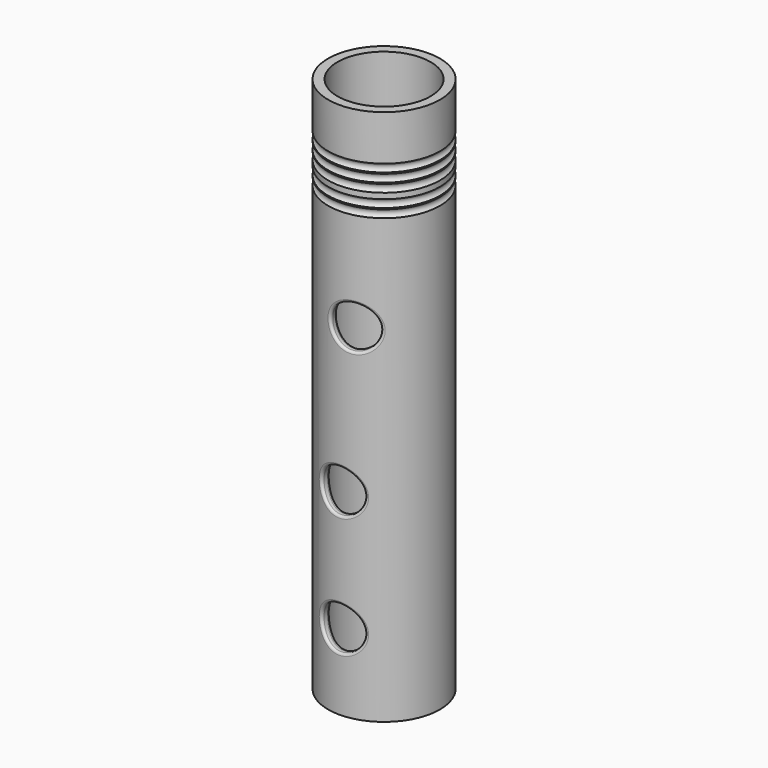
from build123d import *

# Parameters (mm, degrees)
TORUS001001_R                     = 1
TORUS001_R                        = 1
TORUS_R                           = 1
TORUS001002001_R                  = 1
TORUS001002_R                     = 1
CYLINDER006001001_R               = 4.8
CYLINDER006001001_DEPTH           = 10
CYLINDER006001001_ROLL_ANGLE      = 90
CYLINDER006001001_PLACEMENT_ANGLE = 11.000009
CYLINDER006_R                     = 4.8
CYLINDER006_DEPTH                 = 10
CYLINDER006_ROLL_ANGLE            = 90
CYLINDER006001_R                  = 4.8
CYLINDER006001_DEPTH              = 10
CYLINDER006001_ROLL_ANGLE         = 90
CYLINDER001_R                     = 10.4
CYLINDER001_DEPTH                 = 120
CYLINDER_R                        = 12.5
CYLINDER_DEPTH                    = 120
FILLET_R                          = 0.5
FILLET001_R                       = 1


with BuildPart() as torus001001:
    # Torus001001 → Torus001001 (revolve)
    with BuildSketch(Plane(origin=(0, 0, 109), x_dir=(1, 0, 0), z_dir=(0, -1, 0))):
        with Locations((13, 0)):
            Circle(TORUS001001_R)
    revolve(axis=Axis((0, 0, 109), (0, 0, 1)))


with BuildPart() as torus001:
    # Torus001 → Torus001 (revolve)
    with BuildSketch(Plane(origin=(0, 0, 100), x_dir=(1, 0, 0), z_dir=(0, -1, 0))):
        with Locations((13, 0)):
            Circle(TORUS001_R)
    revolve(axis=Axis((0, 0, 100), (0, 0, 1)))


with BuildPart() as torus:
    # Torus → Torus (revolve)
    with BuildSketch(Plane(origin=(0, 0, 102), x_dir=(1, 0, 0), z_dir=(0, -1, 0))):
        with Locations((13, 0)):
            Circle(TORUS_R)
    revolve(axis=Axis((0, 0, 102), (0, 0, 1)))


with BuildPart() as torus001002001:
    # Torus001002001 → Torus001002001 (revolve)
    with BuildSketch(Plane(origin=(0, 0, 105), x_dir=(1, 0, 0), z_dir=(0, -1, 0))):
        with Locations((13, 0)):
            Circle(TORUS001002001_R)
    revolve(axis=Axis((0, 0, 105), (0, 0, 1)))


with BuildPart() as torus001002:
    # Torus001002 → Torus001002 (revolve)
    with BuildSketch(Plane(origin=(0, 0, 107), x_dir=(1, 0, 0), z_dir=(0, -1, 0))):
        with Locations((13, 0)):
            Circle(TORUS001002_R)
    revolve(axis=Axis((0, 0, 107), (0, 0, 1)))


with BuildPart() as obj1:
    # Cylinder006001001 → Cylinder006001001 (new body)
    with BuildSketch(Plane.XY):
        Circle(CYLINDER006001001_R)
    extrude(amount=CYLINDER006001001_DEPTH)


with BuildPart() as obj1_1:
    # Cylinder006001001 roll: moved
    add(obj1.part.rotate(Axis((0, 0, 0), (1, 0, 0)), CYLINDER006001001_ROLL_ANGLE))


with BuildPart() as obj1_2:
    # Cylinder006001001 placement: moved
    add(obj1_1.part.moved(Location((2, -8, 77))).rotate(Axis((2, -8, 77), (0, 0, 1)), CYLINDER006001001_PLACEMENT_ANGLE))


with BuildPart() as obj2:
    # Cylinder006 → Cylinder006 (new body)
    with BuildSketch(Plane.XY):
        Circle(CYLINDER006_R)
    extrude(amount=CYLINDER006_DEPTH)


with BuildPart() as obj2_1:
    # Cylinder006 roll: moved
    add(obj2.part.rotate(Axis((0, 0, 0), (1, 0, 0)), CYLINDER006_ROLL_ANGLE))


with BuildPart() as obj2_2:
    # Cylinder006 placement: moved
    add(obj2_1.part.moved(Location((0, -8, 17))))


with BuildPart() as obj3:
    # Cylinder006001 → Cylinder006001 (new body)
    with BuildSketch(Plane.XY):
        Circle(CYLINDER006001_R)
    extrude(amount=CYLINDER006001_DEPTH)


with BuildPart() as obj3_1:
    # Cylinder006001 roll: moved
    add(obj3.part.rotate(Axis((0, 0, 0), (1, 0, 0)), CYLINDER006001_ROLL_ANGLE))


with BuildPart() as obj3_2:
    # Cylinder006001 placement: moved
    add(obj3_1.part.moved(Location((0, -8, 44))))


with BuildPart() as cylinder001:
    # Cylinder001 → Cylinder001 (new body)
    with BuildSketch(Plane.XY):
        Circle(CYLINDER001_R)
    extrude(amount=CYLINDER001_DEPTH)


with BuildPart() as fillet001:
    # Cylinder → Cylinder (new body)
    with BuildSketch(Plane.XY):
        Circle(CYLINDER_R)
    extrude(amount=CYLINDER_DEPTH)

    # Cut: cut Cylinder001
    add(cylinder001.part, mode=Mode.SUBTRACT)

    # Cut001: cut obj3
    add(obj3_2.part, mode=Mode.SUBTRACT)

    # Cut002: cut obj2
    add(obj2_2.part, mode=Mode.SUBTRACT)

    # Cut003: cut obj1
    add(obj1_2.part, mode=Mode.SUBTRACT)

    # Cut004: cut Torus001002
    add(torus001002.part, mode=Mode.SUBTRACT)

    # Cut005: cut Torus001002001
    add(torus001002001.part, mode=Mode.SUBTRACT)

    # Cut006: cut Torus
    add(torus.part, mode=Mode.SUBTRACT)

    # Cut007: cut Torus001
    add(torus001.part, mode=Mode.SUBTRACT)

    # Cut008: cut Torus001001
    add(torus001001.part, mode=Mode.SUBTRACT)

    # Fillet
    fillet_edges = [fillet001.edges().sort_by_distance(p)[0] for p in [
        (-4.8, -11.541664, 17),
        (-4.8, -11.541664, 44),
        (-2.047961, -12.331093, 77),
    ]]
    fillet(fillet_edges, radius=FILLET_R)

    # Fillet001
    fillet001_edges = [fillet001.edges().sort_by_distance(p)[0] for p in [
        (-2.481728, -10.099555, 77),
        (-4.8, -9.22605, 44),
        (-4.8, -9.22605, 17),
    ]]
    fillet(fillet001_edges, radius=FILLET001_R)


solid = fillet001.part
